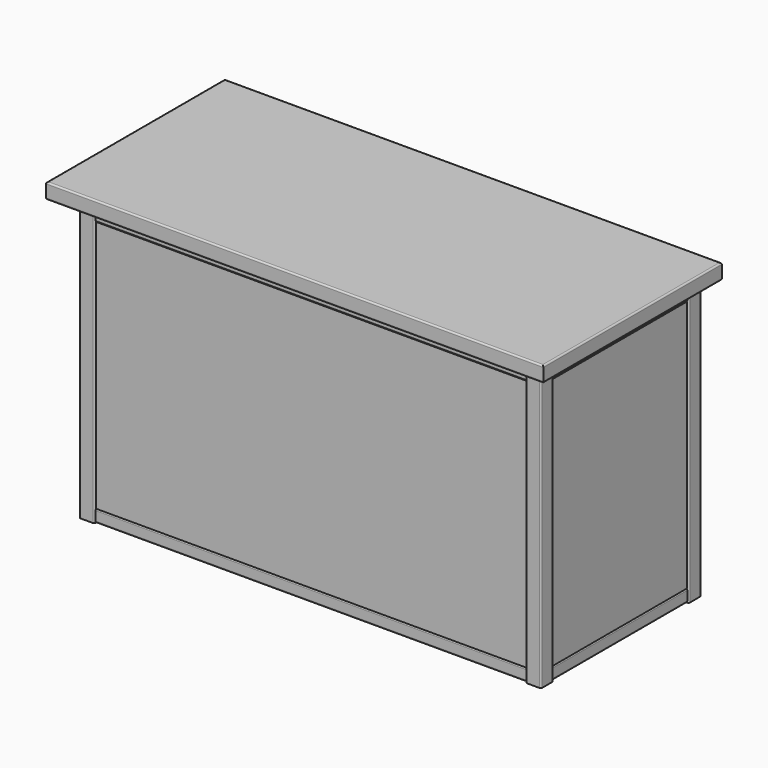
from build123d import *

# Parameters (mm, degrees)
F0_W      = 50.8
F0_H      = 50.8
F1_DEPTH  = 914.4
F2_T      = -2.54
F3_R      = 5.08
F6_W      = 40.64
F6_H      = 40.64
F7_DEPTH  = 1422.4
F8_R      = 5.08
F12_W     = 40.64
F12_H     = 40.64
F13_DEPTH = 558.8
F14_R     = 5.08
F18_W     = 558.8
F18_H     = 833.12
F19_DEPTH = 12.7
F22_W     = 1422.4
F22_H     = 833.12
F23_DEPTH = 12.7
F24_W     = 1640.1810742983
F24_H     = 736.6
F25_DEPTH = 50.8
F26_R     = 5.08


with BuildPart() as f1:
    # F0 (on Top) → F1 (new body)
    with BuildSketch(Plane.XY):
        with Locations((-736.6, 304.8)):
            Rectangle(F0_W, F0_H)
    extrude(amount=F1_DEPTH)

    # F2
    f2_openings = [f1.faces().sort_by_distance(p)[0] for p in [
        (-736.6, 304.8, 914.4),
    ]]
    offset(amount=F2_T, openings=f2_openings)

    # F3
    f3_edges = [f1.edges().sort_by_distance(p)[0] for p in [
        (-762, 279.4, 457.2),
        (-762, 330.2, 457.2),
        (-711.2, 279.4, 457.2),
        (-711.2, 330.2, 457.2),
    ]]
    fillet(f3_edges, radius=F3_R)


with BuildPart() as f4_1:
    # F4: instance of F1
    add(f1.part.mirror(Plane.XZ))


with BuildPart() as f5_1:
    # F5: instance of F1
    add(f1.part.mirror(Plane.YZ))


with BuildPart() as f5_2:
    # F5: instance of F4_1
    add(f4_1.part.mirror(Plane.YZ))


with BuildPart() as f7:
    # F6 (on face) → F7 (new body, through all)
    with BuildSketch(Plane.YZ.offset(-711.2)):
        with Locations((304.8, 20.32)):
            Rectangle(F6_W, F6_H)
    extrude(amount=F7_DEPTH)

    # F8
    f8_edges = [f7.edges().sort_by_distance(p)[0] for p in [
        (0, 325.12, 40.64),
        (0, 284.48, 40.64),
        (0, 325.12, 0),
        (0, 284.48, 0),
    ]]
    fillet(f8_edges, radius=F8_R)


with BuildPart() as f10_1:
    # F10: instance of F7
    add(f7.part.mirror(Plane(origin=(736.6, 304.8, 457.2), x_dir=(1, 0, 0), z_dir=(0, 0, 1))))


with BuildPart() as f11_1:
    # F11: instance of F10_1
    add(f10_1.part.mirror(Plane.XZ))


with BuildPart() as f11_2:
    # F11: instance of F7
    add(f7.part.mirror(Plane.XZ))


with BuildPart() as f13:
    # F12 (on face) → F13 (new body, through all)
    with BuildSketch(Plane.XZ.offset(-279.4)):
        with Locations((-736.6, 894.08)):
            Rectangle(F12_W, F12_H)
    extrude(amount=F13_DEPTH)

    # F14
    f14_edges = [f13.edges().sort_by_distance(p)[0] for p in [
        (-756.92, 0, 914.4),
        (-756.92, 0, 873.76),
        (-716.28, 0, 914.4),
        (-716.28, 0, 873.76),
    ]]
    fillet(f14_edges, radius=F14_R)


with BuildPart() as f15_1:
    # F15: instance of F13
    add(f13.part.mirror(Plane(origin=(736.6, 304.8, 457.2), x_dir=(1, 0, 0), z_dir=(0, 0, 1))))


with BuildPart() as f16_1:
    # F16: instance of F13
    add(f13.part.mirror(Plane.YZ))


with BuildPart() as f16_2:
    # F16: instance of F15_1
    add(f15_1.part.mirror(Plane.YZ))


with BuildPart() as f19:
    # F18 (on offset) → F19 (new body)
    with BuildSketch(Plane(origin=(-755.65, 0, 0), x_dir=(0, -1, 0), z_dir=(-1, 0, 0))):
        with Locations((0, 457.2)):
            Rectangle(F18_W, F18_H)
    extrude(amount=-F19_DEPTH)


with BuildPart() as f20_1:
    # F20: instance of F19
    add(f19.part.mirror(Plane.YZ))


with BuildPart() as f23:
    # F22 (on offset) → F23 (new body)
    with BuildSketch(Plane.XZ.offset(323.85)):
        with Locations((0, 457.2)):
            Rectangle(F22_W, F22_H)
    extrude(amount=-F23_DEPTH)


with BuildPart() as f25:
    # F24 (on face) → F25 (new body)
    with BuildSketch(Plane.XY.offset(914.4)):
        with Locations((-19.9905371492, 0)):
            Rectangle(F24_W, F24_H)
    extrude(amount=F25_DEPTH)

    # F26
    f26_edges = [f25.edges().sort_by_distance(p)[0] for p in [
        (-19.990537, -368.3, 965.2),
        (800.1, 0, 965.2),
        (-19.990537, 368.3, 965.2),
        (-840.081074, 0, 965.2),
        (-19.990537, -368.3, 914.4),
        (800.1, 0, 914.4),
        (-19.990537, 368.3, 914.4),
        (-840.081074, 0, 914.4),
    ]]
    fillet(f26_edges, radius=F26_R)


solid = Compound([f1.part, f4_1.part, f5_1.part, f5_2.part, f7.part, f10_1.part, f11_1.part, f11_2.part, f13.part, f15_1.part, f16_1.part, f16_2.part, f19.part, f20_1.part, f23.part, f25.part])
